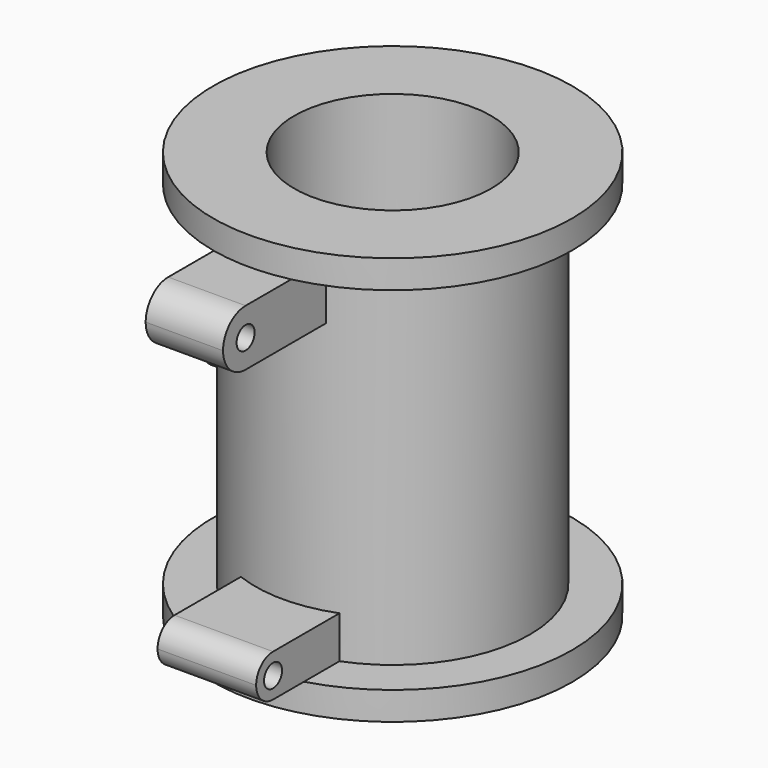
from build123d import *

# Parameters (mm, degrees)
F0_R      = 30.95625
F0_R_2    = 22.225
F1_DEPTH  = 92.075
F2_R      = 40.48125
F2_R_2    = 30.95625
F3_DEPTH  = 6.35
F4_R      = 40.48125
F4_R_2    = 30.95625
F5_DEPTH  = 6.35
F13_R     = 7.9375
F15_R     = 2.54
F16_DEPTH = 17.4625
F17_R     = 2.54
F18_DEPTH = 22.2377
F19_R     = 4.7625
F20_DEPTH = 16.002


with BuildPart() as f1:
    # F0 (on Top) → F1 (new body)
    with BuildSketch(Plane.XY):
        Circle(F0_R)
        Circle(F0_R_2, mode=Mode.SUBTRACT)
    extrude(amount=F1_DEPTH)

    # F2 (on face) → F3 (join)
    with BuildSketch(Plane.XY.offset(92.075)):
        Circle(F2_R)
        Circle(F2_R_2, mode=Mode.SUBTRACT)
    extrude(amount=-F3_DEPTH)

    # F4 (on face) → F5 (join)
    with BuildSketch(Plane(origin=(0, 0, 0), x_dir=(1, 0, 0), z_dir=(0, 0, -1))):
        Circle(F4_R)
        Circle(F4_R_2, mode=Mode.SUBTRACT)
    extrude(amount=-F5_DEPTH)

    # F7 (on offset) → F8 (join, up to the next surface of F1)
    with BuildSketch(Plane.XZ.offset(58.7375)):
        Polygon((-8.73125, 73.025), (0, 73.025), (8.73125, 73.025), (8.73125, 85.725), (-8.73125, 85.725), align=None)
    extrude(until=Until.NEXT, dir=(0, 1, 0))

    # F10 (on offset) → F11 (join, up to the next surface of F1)
    with BuildSketch(Plane.XZ.offset(52.3875)):
        Polygon((11.1125, 15.875), (0, 15.875), (-11.1252, 15.875), (-11.1252, 6.35), (11.1125, 6.35), align=None)
    extrude(until=Until.NEXT, dir=(0, 1, 0))

    # F13 (on offset) → F14 (join, up to the next surface of F1)
    with BuildSketch(Plane.YZ.offset(-37.30625)):
        with Locations((0, 46.0375)):
            Circle(F13_R)
    extrude(until=Until.NEXT)

    # F15 (on face) → F16 (cut, through all)
    with BuildSketch(Plane(origin=(-8.73125, 0, 0), x_dir=(0, -1, 0), z_dir=(-1, 0, 0))):
        with BuildLine():
            ThreePointArc((52.3874999998, 85.725), (56.8776280605, 83.8651280606), (58.7375, 79.375))
            Line((58.7375, 79.375), (58.7375, 85.725))
            Line((58.7374999992, 85.725), (52.3874999994, 85.725))
        make_face()
        with BuildLine():
            ThreePointArc((58.7375, 79.375), (56.8776280605, 74.8848719394), (52.3874999998, 73.025))
            Line((52.3874999994, 73.025), (58.7374999992, 73.025))
            Line((58.7375, 73.025), (58.7375, 79.375))
        make_face()
        with Locations((52.3875, 79.375)):
            Circle(F15_R)
    extrude(amount=-F16_DEPTH, mode=Mode.SUBTRACT)

    # F17 (on face) → F18 (cut, through all)
    with BuildSketch(Plane(origin=(-11.1252, 0, 0), x_dir=(0, -1, 0), z_dir=(-1, 0, 0))):
        with BuildLine():
            ThreePointArc((47.6249999998, 15.875), (50.9925960453, 14.4800960455), (52.3875, 11.1125))
            Line((52.3875, 11.1125), (52.3875, 15.875))
            Line((52.3874999992, 15.875), (47.6249999994, 15.875))
        make_face()
        with BuildLine():
            ThreePointArc((52.3875, 11.1125), (50.9925960453, 7.7449039545), (47.6249999998, 6.35))
            Line((47.6249999994, 6.35), (52.3874999992, 6.35))
            Line((52.3875, 6.35), (52.3875, 11.1125))
        make_face()
        with Locations((47.625, 11.1125)):
            Circle(F17_R)
    extrude(amount=-F18_DEPTH, mode=Mode.SUBTRACT)

    # F19 (on face) → F20 (cut)
    with BuildSketch(Plane(origin=(-37.30625, 0, 0), x_dir=(0, -1, 0), z_dir=(-1, 0, 0))):
        with Locations((0, 46.0375)):
            Circle(F19_R)
    extrude(amount=-F20_DEPTH, mode=Mode.SUBTRACT)


solid = f1.part
